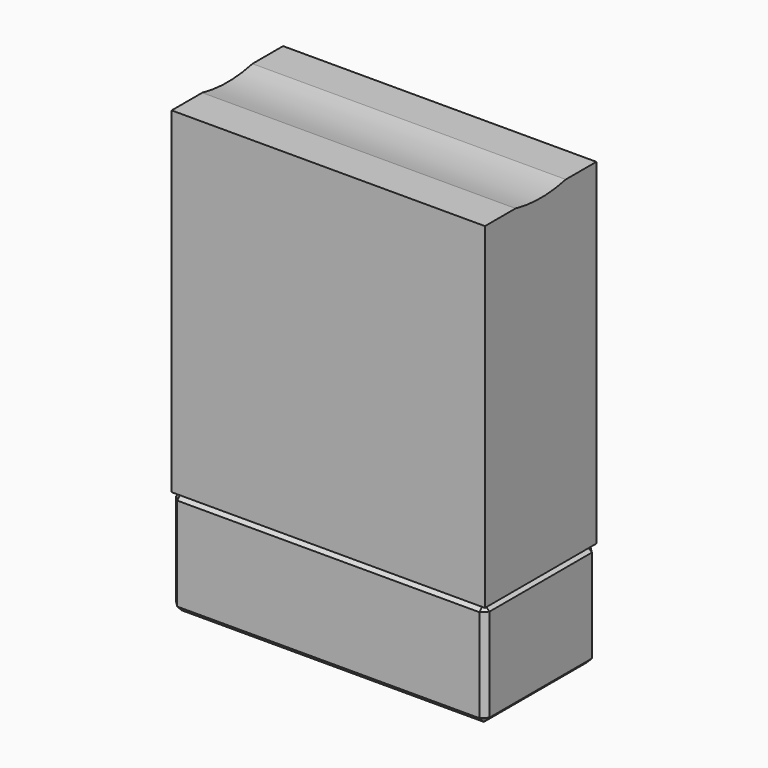
from build123d import *

# Parameters (mm, degrees)
F0_W          = 28.575
F0_H          = 12.7
F1_DEPTH      = 9.525
F2_DEPTH      = 30.6578
F3_R          = 12.573
F4_DEPTH      = 14.2885
F4_DEPTH_BACK = 14.2885
F5_R          = 2.0955
F6_DEPTH      = 9.525
F7_SIZE       = 0.508


with BuildPart() as f1:
    # F0 (on Top) → F1 (new body)
    with BuildSketch(Plane.XY):
        Rectangle(F0_W, F0_H)
    extrude(amount=-F1_DEPTH)


with BuildPart() as f2:
    # F2 (new): a face of the model
    f2_faces = [f1.part.faces().sort_by_distance(p)[0] for p in [
        (0, 0, 0),
    ]]
    extrude(f2_faces, amount=F2_DEPTH)

    # F3 (on Right) → F4 (cut, two sides)
    with BuildSketch(Plane.YZ) as f4_sk:
        with Locations((0, 42.9006)):
            Circle(F3_R)
    extrude(amount=-F4_DEPTH, mode=Mode.SUBTRACT)
    extrude(f4_sk.sketch, amount=F4_DEPTH_BACK, mode=Mode.SUBTRACT)


with BuildPart() as f1_1:
    add(f1.part)

    # F5 (on face) → F6 (cut, through all)
    with BuildSketch(Plane(origin=(0, 0, -9.525), x_dir=(1, 0, 0), z_dir=(0, 0, -1))):
        with Locations((-8.7249, 0)):
            Circle(F5_R)
        with Locations((3.9751, 0)):
            Circle(F5_R)
    extrude(amount=-F6_DEPTH, mode=Mode.SUBTRACT)

    # F7
    f7_edges = [f1_1.edges().sort_by_distance(p)[0] for p in [
        (0, -6.35, -9.525),
        (-14.2875, 0, -9.525),
        (14.2875, 0, -9.525),
        (0, 6.35, -9.525),
        (-10.8204, 0, -9.525),
        (1.8796, 0, -9.525),
        (0, -6.35, 0),
        (-14.2875, 0, 0),
        (14.2875, 0, 0),
        (0, 6.35, 0),
        (-10.8204, 0, 0),
        (1.8796, 0, 0),
        (-14.2875, -6.35, -4.7625),
        (14.2875, -6.35, -4.7625),
        (14.2875, 6.35, -4.7625),
        (-14.2875, 6.35, -4.7625),
    ]]
    chamfer(f7_edges, length=F7_SIZE)


solid = Compound([f2.part, f1_1.part])
